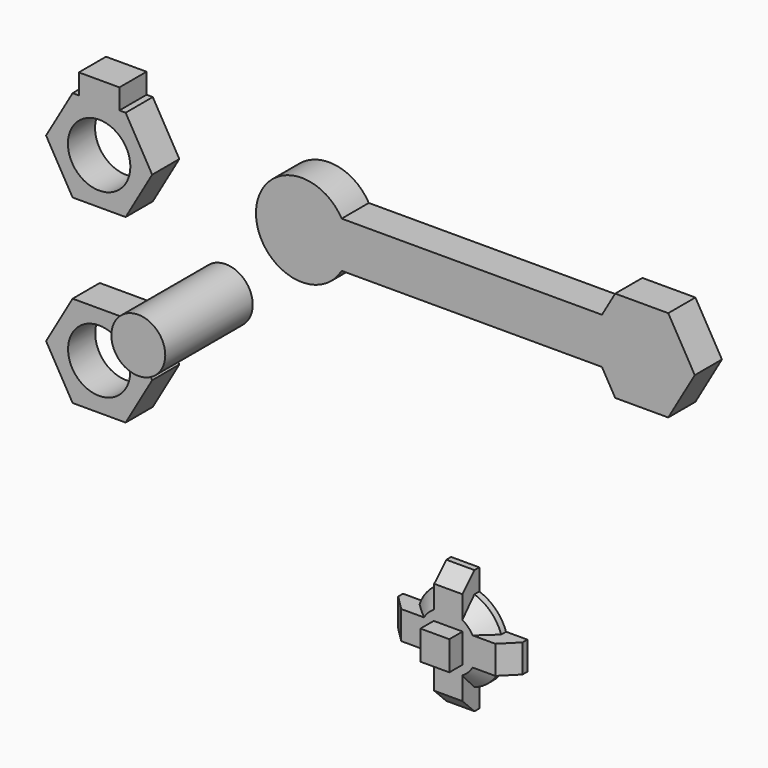
from build123d import *

# Parameters (mm, degrees)
F0_R      = 10.519302146
F1_DEPTH  = 11.43
F0_R_2    = 10.4571143602
F4_DEPTH  = 7.112
F5_SIZE   = 5.08
F6_W      = 9.7099430859
F6_H      = 9.8328515887
F7_DEPTH  = 12.7
F8_R      = 9.0793803352
F9_DEPTH  = 36.83
F10_DEPTH = 36.83


with BuildPart() as f1:
    # F0 (on Front) → F1 (new body)
    with BuildSketch(Plane.XZ):
        Polygon((-75.1246213913, 76.4004662633), (-77.2196794092, 76.4004662633), (-86.1505557177, 60.9317347407), (-77.2196794092, 45.4630032182), (-59.357926792, 45.4630032182), (-50.4270504834, 60.9317347407), (-59.357926792, 76.4004662633), (-61.4529848099, 76.4004662633), (-61.4529848099, 69.5646479726), (-68.2888031006, 76.4004662633), (-75.1246213913, 69.5646479726), align=None)
        with Locations((-68.2888031006, 60.9317347407)):
            Circle(F0_R, mode=Mode.SUBTRACT)
        Polygon((-75.1246213913, 83.236284554), (-75.1246213913, 76.4004662633), (-68.2888031006, 76.4004662633), (-61.4529848099, 76.4004662633), (-61.4529848099, 83.236284554), align=None)
        Polygon((-68.2888031006, 76.4004662633), (-75.1246213913, 76.4004662633), (-75.1246213913, 69.5646479726), align=None)
        Polygon((-61.4529848099, 76.4004662633), (-68.2888031006, 76.4004662633), (-61.4529848099, 69.5646479726), align=None)
    extrude(amount=F1_DEPTH)


with BuildPart() as f1b:
    # F0 (on Front) → F1, piece 2 (new body)
    with BuildSketch(Plane.XZ):
        with BuildLine():
            ThreePointArc((15.4687315226, 60.9317347407), (14.9416472776, 64.9353370624), (13.3963144629, 68.666100502))
            Line((13.3963144629, 68.666100502), (13.3963144629, 53.1973689795))
            ThreePointArc((13.3963144629, 53.1973689795), (14.9416472776, 56.9281324191), (15.4687315226, 60.9317347407))
        make_face()
        with BuildLine():
            Line((101.0556601675, 68.666100502), (13.3963144629, 68.666100502))
            ThreePointArc((13.3963144629, 68.666100502), (14.9416472776, 64.9353370624), (15.4687315226, 60.9317347407))
            ThreePointArc((15.4687315226, 60.9317347407), (14.9416472776, 56.9281324191), (13.3963144629, 53.1973689795))
            Line((13.3963144629, 53.1973689795), (101.0556601675, 53.1973689795))
            Line((101.0556601675, 53.1973689795), (96.5902220132, 60.9317347407))
            Line((96.5902220132, 60.9317347407), (101.0556601675, 68.666100502))
        make_face()
        with BuildLine():
            Line((13.3963144629, 53.1973689795), (13.3963144629, 68.666100502))
            ThreePointArc((13.3963144629, 68.666100502), (-15.4687315226, 60.9317347407), (13.3963144629, 53.1973689795))
        make_face()
        Polygon((105.5210983218, 76.4004662633), (101.0556601675, 68.666100502), (114.4519746304, 68.666100502), (114.4519746304, 53.1973689795), (101.0556601675, 53.1973689795), (105.5210983218, 45.4630032182), (123.3828509389, 45.4630032182), (132.3137272475, 60.9317347407), (123.3828509389, 76.4004662633), align=None)
        Polygon((114.4519746304, 68.666100502), (101.0556601675, 68.666100502), (96.5902220132, 60.9317347407), (101.0556601675, 53.1973689795), (114.4519746304, 53.1973689795), align=None)
    extrude(amount=F1_DEPTH)


with BuildPart() as f1c:
    # F0 (on Front) → F1, piece 3 (new body)
    with BuildSketch(Plane.XZ):
        Polygon((-59.357926792, -15.4687315226), (-50.4270504834, 0), (-59.357926792, 15.4687315226), (-77.2196794092, 15.4687315226), (-86.1505557177, 0), (-77.2196794092, -15.4687315226), align=None)
        with Locations((-68.2888031006, 0)):
            Circle(F0_R_2, mode=Mode.SUBTRACT)
    extrude(amount=F1_DEPTH)


with BuildPart() as f4:
    # F3 (on Front) → F4 (new body)
    with BuildSketch(Plane.XZ):
        with BuildLine():
            ThreePointArc((59.6135334386, -52.9624782503), (60.2132493643, -50.6137481904), (60.4150185059, -48.1980741024))
            ThreePointArc((60.4150185059, -48.1980741024), (60.2132493643, -45.7824000144), (59.6135334386, -43.4336699545))
            Line((59.6135334386, -43.4336699545), (50.5945459008, -43.4336699545))
            Line((50.5945459008, -43.4336699545), (50.5945459008, -52.9624782503))
            Line((50.5945459008, -52.9624782503), (59.6135334386, -52.9624782503))
        make_face()
        with BuildLine():
            ThreePointArc((59.6135334386, -43.4336699545), (60.2132493643, -45.7824000144), (60.4150185059, -48.1980741024))
            ThreePointArc((60.4150185059, -48.1980741024), (60.2132493643, -50.6137481904), (59.6135334386, -52.9624782503))
            Line((59.6135334386, -52.9624782503), (66.783182323, -52.9624782503))
            Line((66.783182323, -52.9624782503), (66.783182323, -43.4336699545))
            Line((66.783182323, -43.4336699545), (59.6135334386, -43.4336699545))
        make_face()
        with BuildLine():
            Line((50.5945459008, -43.4336699545), (59.6135334386, -43.4336699545))
            ThreePointArc((59.6135334386, -43.4336699545), (56.1413204063, -37.8927413191), (50.5945459008, -34.4298745776))
            Line((50.5945459008, -34.4298745776), (50.5945459008, -43.4336699545))
        make_face()
        with BuildLine():
            ThreePointArc((50.5945459008, -61.9662736272), (56.1413204063, -58.5034068857), (59.6135334386, -52.9624782503))
            Line((59.6135334386, -52.9624782503), (50.5945459008, -52.9624782503))
            Line((50.5945459008, -52.9624782503), (50.5945459008, -61.9662736272))
        make_face()
        with BuildLine():
            Line((50.5945459008, -43.4336699545), (50.5945459008, -34.4298745776))
            ThreePointArc((50.5945459008, -34.4298745776), (45.8533465862, -33.6364021827), (41.1121472716, -34.4298745776))
            Line((41.1121472716, -34.4298745776), (41.1121472716, -43.4336699545))
            Line((41.1121472716, -43.4336699545), (50.5945459008, -43.4336699545))
        make_face()
        with BuildLine():
            ThreePointArc((41.1121472716, -34.4298745776), (45.8533465862, -33.6364021827), (50.5945459008, -34.4298745776))
            Line((50.5945459008, -34.4298745776), (50.5945459008, -27.2682383657))
            Line((50.5945459008, -27.2682383657), (41.1121472716, -27.2682383657))
            Line((41.1121472716, -27.2682383657), (41.1121472716, -34.4298745776))
        make_face()
        with BuildLine():
            Line((50.5945459008, -69.1279098392), (50.5945459008, -61.9662736272))
            ThreePointArc((50.5945459008, -61.9662736272), (45.8533465862, -62.7597460221), (41.1121472716, -61.9662736272))
            Line((41.1121472716, -61.9662736272), (41.1121472716, -69.1279098392))
            Line((41.1121472716, -69.1279098392), (50.5945459008, -69.1279098392))
        make_face()
        with BuildLine():
            ThreePointArc((41.1121472716, -61.9662736272), (45.8533465862, -62.7597460221), (50.5945459008, -61.9662736272))
            Line((50.5945459008, -61.9662736272), (50.5945459008, -52.9624782503))
            Line((50.5945459008, -52.9624782503), (41.1121472716, -52.9624782503))
            Line((41.1121472716, -52.9624782503), (41.1121472716, -61.9662736272))
        make_face()
        with BuildLine():
            Line((41.1121472716, -43.4336699545), (41.1121472716, -34.4298745776))
            ThreePointArc((41.1121472716, -34.4298745776), (35.5653727662, -37.8927413191), (32.0931597339, -43.4336699545))
            Line((32.0931597339, -43.4336699545), (41.1121472716, -43.4336699545))
        make_face()
        with BuildLine():
            Line((41.1121472716, -52.9624782503), (41.1121472716, -43.4336699545))
            Line((41.1121472716, -43.4336699545), (32.0931597339, -43.4336699545))
            ThreePointArc((32.0931597339, -43.4336699545), (31.2916746666, -48.1980741024), (32.0931597339, -52.9624782503))
            Line((32.0931597339, -52.9624782503), (41.1121472716, -52.9624782503))
        make_face()
        with BuildLine():
            ThreePointArc((32.0931597339, -52.9624782503), (35.5653727662, -58.5034068857), (41.1121472716, -61.9662736272))
            Line((41.1121472716, -61.9662736272), (41.1121472716, -52.9624782503))
            Line((41.1121472716, -52.9624782503), (32.0931597339, -52.9624782503))
        make_face()
        with BuildLine():
            ThreePointArc((32.0931597339, -52.9624782503), (31.2916746666, -48.1980741024), (32.0931597339, -43.4336699545))
            Line((32.0931597339, -43.4336699545), (24.9235108495, -43.4336699545))
            Line((24.9235108495, -43.4336699545), (24.9235108495, -52.9624782503))
            Line((24.9235108495, -52.9624782503), (32.0931597339, -52.9624782503))
        make_face()
    extrude(amount=F4_DEPTH)

    # F5
    f5_edges = [f4.edges().sort_by_distance(p)[0] for p in [
        (45.853347, -7.112, -27.268238),
        (66.783182, -7.112, -48.198074),
        (45.853347, -7.112, -69.12791),
        (24.923511, -7.112, -48.198074),
        (56.14132, -7.112, -37.892741),
        (56.14132, -7.112, -58.503407),
        (35.565373, -7.112, -37.892741),
        (35.565373, -7.112, -58.503407),
    ]]
    chamfer(f5_edges, length=F5_SIZE)

    # F6 (on Front) → F7 (join)
    with BuildSketch(Plane.XZ):
        with Locations((45.8080749959, -48.3138300478)):
            Rectangle(F6_W, F6_H)
    extrude(amount=F7_DEPTH)


with BuildPart() as f9:
    # F8 (on Front) → F9 (new body)
    with BuildSketch(Plane.XZ):
        with Locations((-34.7743965685, 25.7699601352)):
            Circle(F8_R)
    extrude(amount=F9_DEPTH)

    # F8 (on Front) → F10 (join)
    with BuildSketch(Plane.XZ):
        with Locations((-34.7743965685, 25.7699601352)):
            Circle(F8_R)
    extrude(amount=F10_DEPTH)


solid = Compound([f1.part, f1b.part, f1c.part, f4.part, f9.part])
